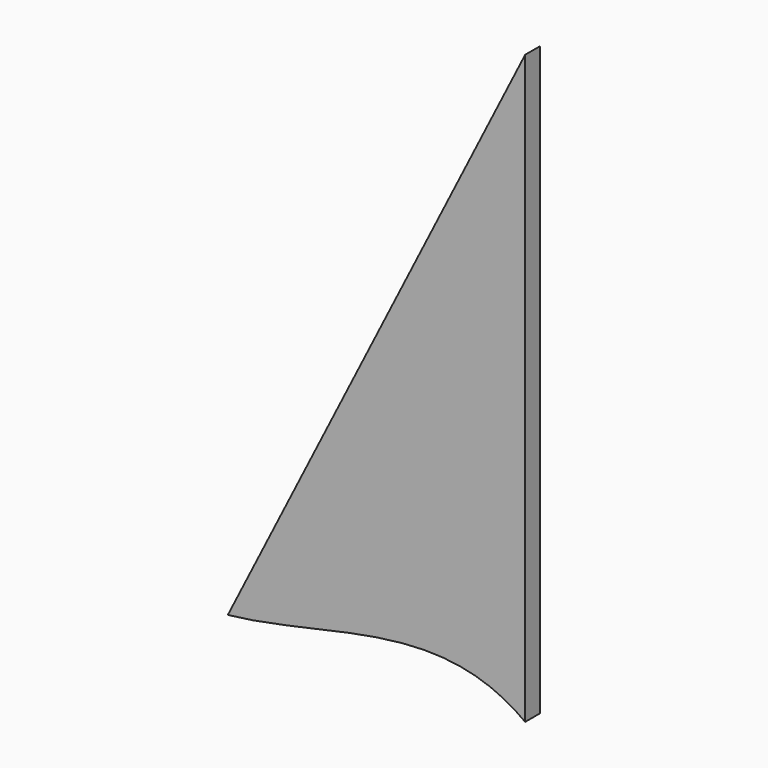
from build123d import *

# Parameters (mm, degrees)
F1_DEPTH = 4


with BuildPart() as f1:
    # F0 (on Front) → F1 (new body)
    with BuildSketch(Plane.XZ):
        with BuildLine():
            Line((0, -65.118331), (0, 60.462087))
            Line((0, 60.462087), (-63.570571, -65.650816))
            add(Edge.make_bspline(
                [(-63.570571, -65.650816), (-42.049761, -63.447874), (-18.53673, -51.255926), (0, -65.118331)],
                knots=[0, 0, 0, 0, 63.572801, 63.572801, 63.572801, 63.572801], degree=3))
        make_face()
    extrude(amount=F1_DEPTH)


solid = f1.part
